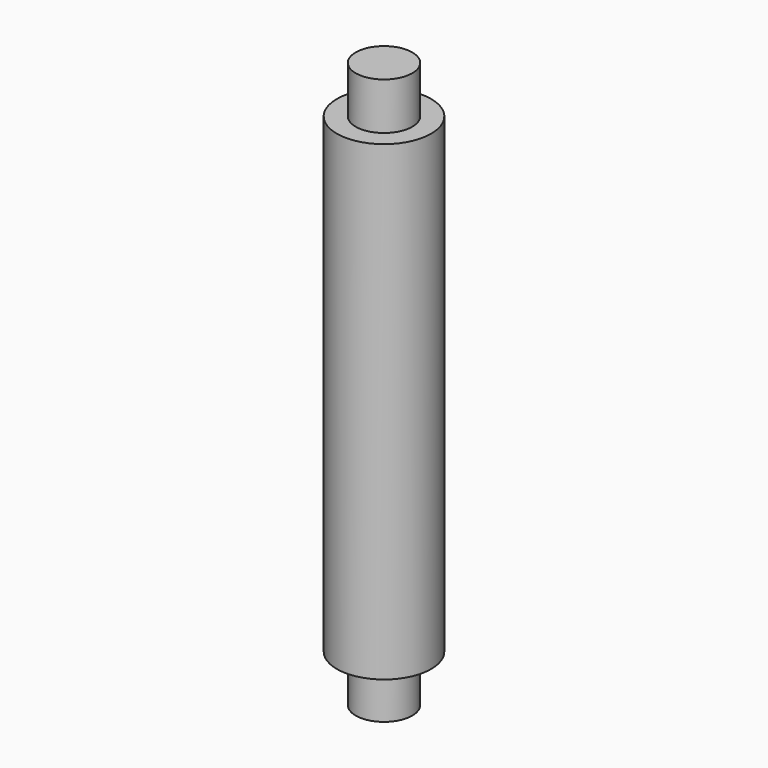
from build123d import *

# Parameters (mm, degrees)
F0_W = 6
F0_H = 10


with BuildPart() as f1:
    # F0 (on Right) → F1 (revolve)
    with BuildSketch(Plane.YZ):
        Polygon((0, 110), (0, 10), (6, 10), (10, 10), (10, 110), (6, 110), align=None)
        with Locations((3, 115)):
            Rectangle(F0_W, F0_H)
        with Locations((3, 5)):
            Rectangle(F0_W, F0_H)
    revolve(axis=Axis((0, 0, 60), (0, 0, 1)))


solid = f1.part
